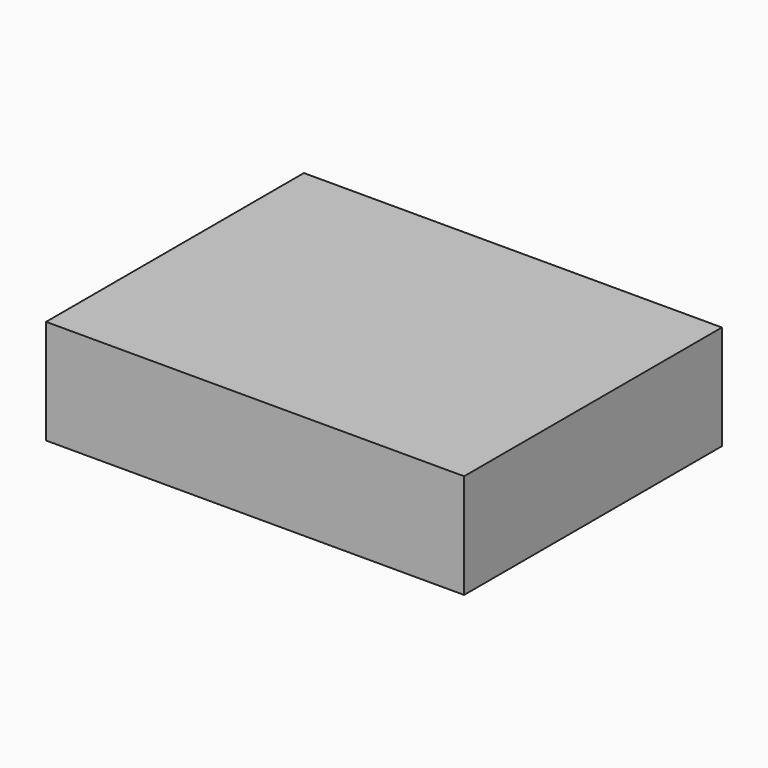
from build123d import *

# Parameters (mm, degrees)
EXTRUDE012_DEPTH           = 20
EXTRUDE012_PLACEMENT_ANGLE = 300
BOX142_W                   = 48
BOX142_H                   = 12
BOX142_DEPTH               = 37
CUT030_PLACEMENT_ANGLE     = 90


with BuildPart() as extrude012:
    # Sketch023 (on Box) → Extrude012 (new body)
    with BuildSketch(Plane.XZ):
        with BuildLine():
            ThreePointArc((7.277422, 6.106482), (0, 9.5), (-7.277422, 6.106482))
            Line((-7.277422, 6.106482), (-5.1708, 4.338816))
            ThreePointArc((5.1708, 4.338816), (0, 6.75), (-5.1708, 4.338816))
            Line((5.1708, 4.338816), (7.277422, 6.106482))
        make_face()
        with BuildLine():
            ThreePointArc((-8.92708, 3.249192), (-8.227241, -4.75), (-1.649658, -9.355674))
            Line((-1.172125, -6.647452), (-1.649658, -9.355674))
            ThreePointArc((-6.342925, 2.308636), (-5.845671, -3.375), (-1.172125, -6.647452))
            Line((-8.92708, 3.249192), (-6.342925, 2.308636))
        make_face()
        with BuildLine():
            ThreePointArc((1.649658, -9.355674), (8.227241, -4.75), (8.92708, 3.249192))
            Line((6.342925, 2.308636), (8.92708, 3.249192))
            ThreePointArc((1.172125, -6.647452), (5.845671, -3.375), (6.342925, 2.308636))
            Line((1.172125, -6.647452), (1.649658, -9.355674))
        make_face()
    extrude(amount=EXTRUDE012_DEPTH)


with BuildPart() as extrude012_1:
    # Extrude012 placement: moved
    add(extrude012.part.moved(Location((12.4, 2.6, 25.087942))).rotate(Axis((12.4, 2.6, 25.087942), (0, -1, 0)), EXTRUDE012_PLACEMENT_ANGLE))


with BuildPart() as cut030:
    # Box142 → Box142 (new body)
    with BuildSketch(Plane.XY):
        with Locations((24, 6)):
            Rectangle(BOX142_W, BOX142_H)
    extrude(amount=BOX142_DEPTH)

    # Cut030: cut Extrude012
    add(extrude012_1.part, mode=Mode.SUBTRACT)


with BuildPart() as cut030_1:
    # Cut030 placement: moved
    add(cut030.part.moved(Location((-26, 37, 0))).rotate(Axis((-26, 37, 0), (1, 0, 0)), CUT030_PLACEMENT_ANGLE))


solid = cut030_1.part
